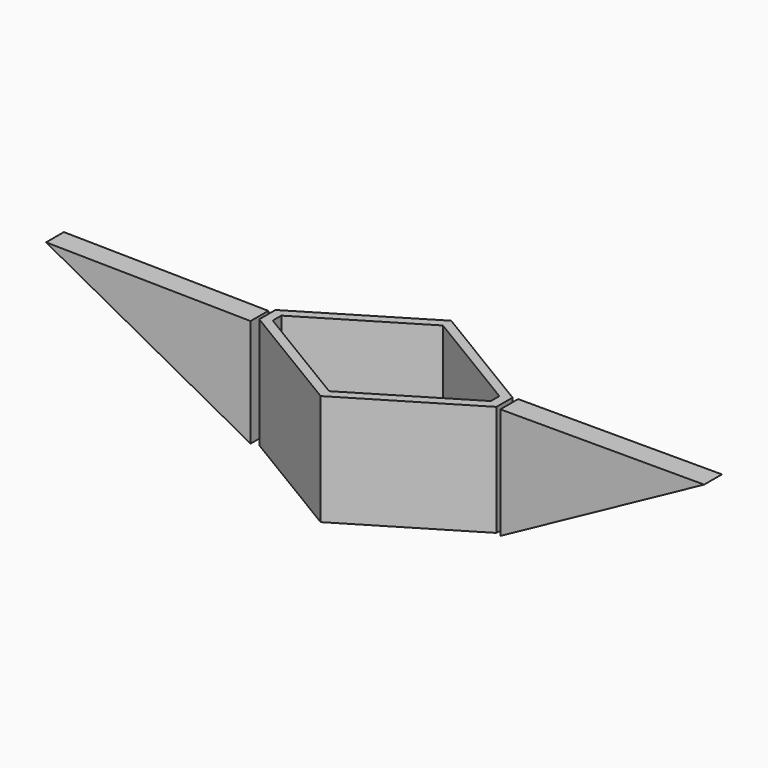
from build123d import *

# Parameters (mm, degrees)
F1_DEPTH = 5.08
F3_DEPTH = 25.4


with BuildPart() as f1:
    # F0 (on Front) → F1 (new body)
    with BuildSketch(Plane.XZ):
        Polygon((-28.748535, 24.699444), (-75.556003, 25.347296), (-28.748535, 0), align=None)
        Polygon((28.424606, 25.509261), (28.424606, 0), (75.070113, 25.509261), align=None)
    extrude(amount=F1_DEPTH)


with BuildPart() as f3:
    # F2 (on Top) → F3 (new body)
    with BuildSketch(Plane.XY):
        Polygon((0, 16.371), (-27.128898, 0), (-27.128898, -4.615962), (0, -20.974282), (27.149925, -4.615962), (27.149925, 0), align=None)
        Polygon((-24.94357, -1.042409), (0, 14.009849), (24.962903, -1.042409), (24.962903, -3.482217), (0, -18.544829), (-24.94357, -3.504228), align=None, mode=Mode.SUBTRACT)
    extrude(amount=F3_DEPTH)


solid = Compound([f1.part, f3.part])
